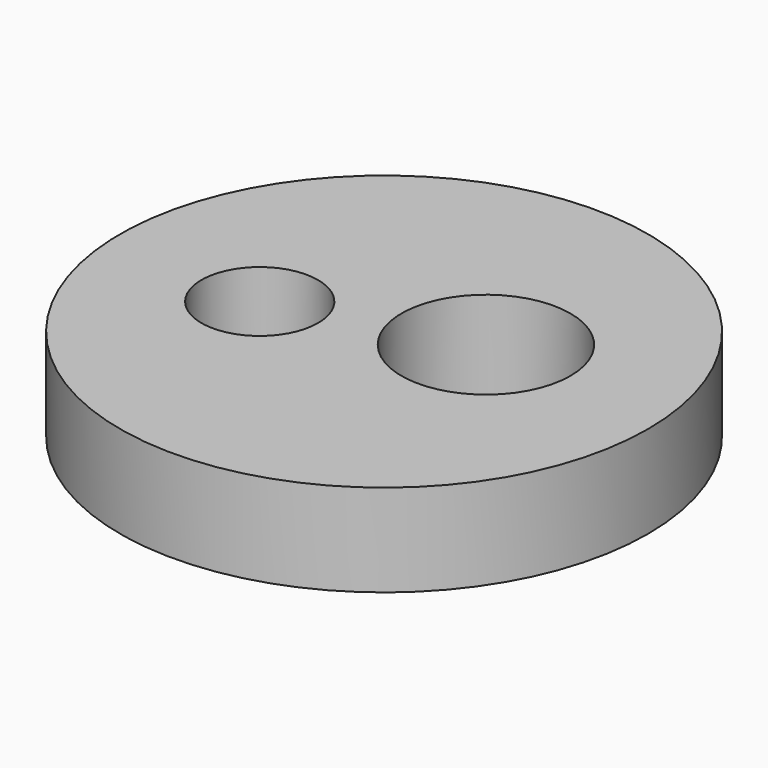
from build123d import *

# Parameters (mm, degrees)
F0_R     = 71.517876
F0_R_2   = 15.796851
F0_R_3   = 22.900496
F1_DEPTH = 25


with BuildPart() as f1:
    # F0 (on Top) → F1 (new body)
    with BuildSketch(Plane.XY):
        with Locations((-75.750731, -8.773502)):
            Circle(F0_R)
        with Locations((-104.898378, -14.454857)):
            Circle(F0_R_2, mode=Mode.SUBTRACT)
        with Locations((-55.171233, 0)):
            Circle(F0_R_3, mode=Mode.SUBTRACT)
    extrude(amount=F1_DEPTH)


solid = f1.part
